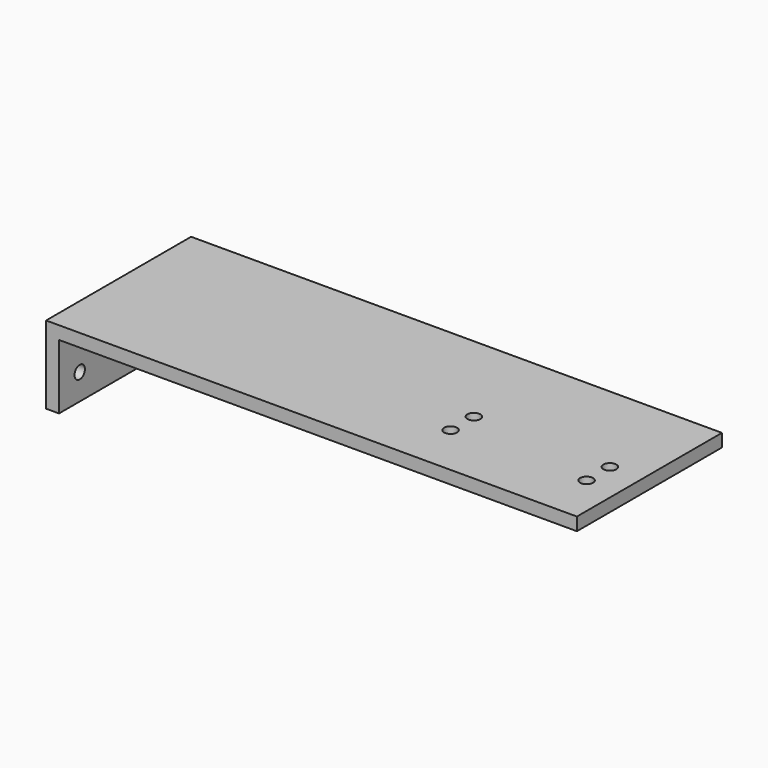
from build123d import *

# Parameters (mm, degrees)
F1_DEPTH = 88.9
F2_R     = 3.175
F3_DEPTH = 25.4
F4_R     = 3.175
F5_DEPTH = 25.4


with BuildPart() as f1:
    # F0 (on Front) → F1 (new body)
    with BuildSketch(Plane.XZ):
        Polygon((-57.892904, 8.5725), (-57.892904, -29.5275), (-51.542904, -29.5275), (-51.542904, 2.2225), (202.457096, 2.2225), (202.457096, 8.5725), align=None)
    extrude(amount=F1_DEPTH)

    # F2 (on face) → F3 (cut)
    with BuildSketch(Plane.XY.offset(8.5725)):
        with Locations((119.907096, -63.1698)):
            Circle(F2_R)
        with Locations((119.907096, -48.8696)):
            Circle(F2_R)
        with Locations((186.607496, -63.1698)):
            Circle(F2_R)
        with Locations((186.607496, -48.8696)):
            Circle(F2_R)
    extrude(amount=-F3_DEPTH, mode=Mode.SUBTRACT)

    # F4 (on face) → F5 (cut)
    with BuildSketch(Plane(origin=(-57.892904, 0, 0), x_dir=(0, -1, 0), z_dir=(-1, 0, 0))):
        with Locations((12.7, -16.8275)):
            Circle(F4_R)
        with Locations((76.2, -16.8275)):
            Circle(F4_R)
    extrude(amount=-F5_DEPTH, mode=Mode.SUBTRACT)


solid = f1.part
